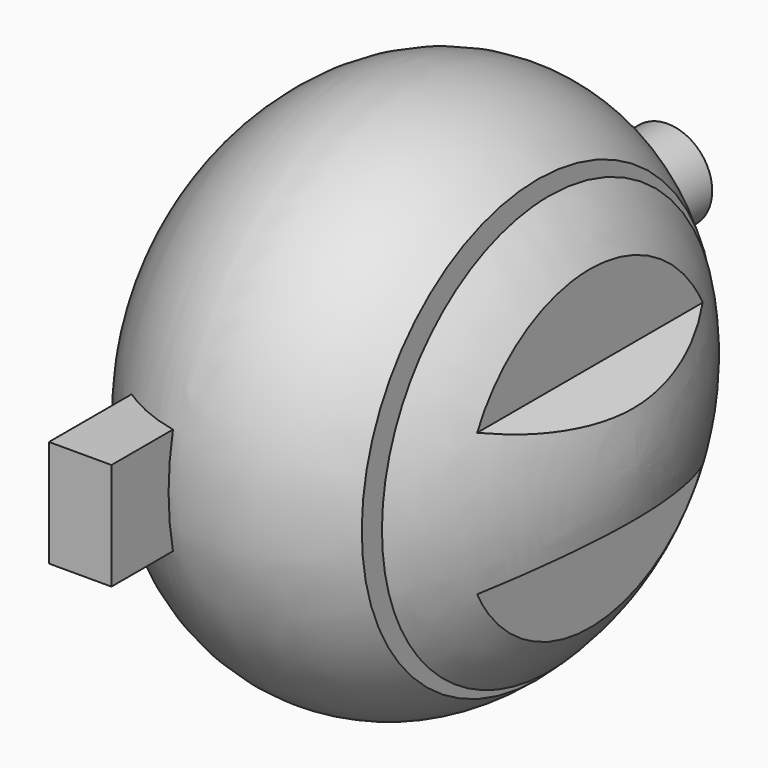
from build123d import *

# Parameters (mm, degrees)
F3_DEPTH = 20
F4_W     = 1.2972189062
F4_H     = 10.2779610492
F6_W     = 7
F6_H     = 12
F7_DEPTH = 37.6
F8_R     = 5
F9_DEPTH = 44.8


with BuildPart() as f1:
    # F0 (on Front) → F1 (revolve)
    with BuildSketch(Plane.XZ):
        with BuildLine():
            add(Edge.make_bspline(
                [(0, 30), (16.2610174256, 30), (25, 10.9921857571), (25, 0)],
                knots=[0, 0, 0, 0, 39.0512483795, 39.0512483795, 39.0512483795, 39.0512483795], degree=3))
            add(Edge.make_bspline(
                [(0, 30), (-9.0857928701, 30), (-15.8232208718, 24.065796812), (-20, 16.9113518854)],
                knots=[0, 0, 0, 0, 21.8197634754, 21.8197634754, 21.8197634754, 21.8197634754], degree=3))
            Line((-20, 16.9113518854), (-20, 0))
            Line((-20, 0), (25, 0))
        make_face()
    revolve(axis=Axis((12.5, 0, 0), (1, 0, 0)))

    # F2 (on Front) → F3 (cut, symmetric)
    with BuildSketch(Plane.XZ):
        Polygon((26.4112874866, 18.832474947), (19.5291824639, 19.1946905106), (19.5291824639, 7.9659949988), (26.4112874866, 4.5249424875), align=None)
        Polygon((19.5291824639, -7.9659949988), (19.5291824639, -19.1946905106), (26.4112874866, -18.832474947), (26.4112874866, -4.5249424875), align=None)
    extrude(amount=F3_DEPTH, both=True, mode=Mode.SUBTRACT)

    # F4 (on Front) → F5 (revolve, cut)
    with BuildSketch(Plane.XZ):
        with Locations((14.3513905469, 26.2715257704)):
            Rectangle(F4_W, F4_H)
    revolve(axis=Axis((7.8121407423, 0, 0), (1, 0, 0)), mode=Mode.SUBTRACT)

    # F6 (on Front) → F7 (join)
    with BuildSketch(Plane.XZ):
        with Locations((-7.5, 0)):
            Rectangle(F6_W, F6_H)
    extrude(amount=F7_DEPTH)

    # F8 (on Front) → F9 (join)
    with BuildSketch(Plane.XZ):
        with Locations((-7.6043987647, 0)):
            Circle(F8_R)
    extrude(amount=-F9_DEPTH)


solid = f1.part
